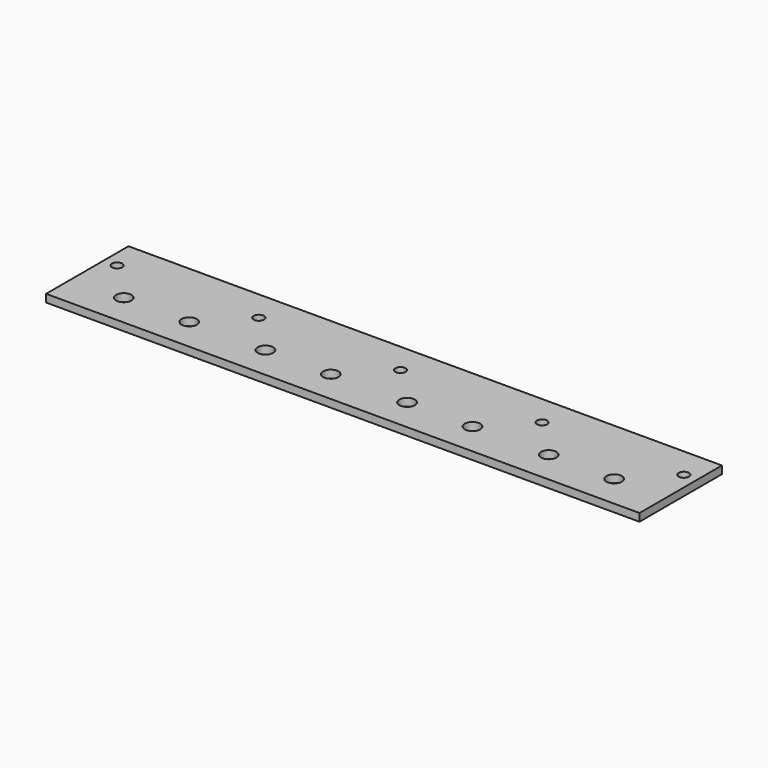
from build123d import *

# Parameters (mm, degrees)
F0_W     = 230.4
F0_H     = 40
F1_DEPTH = 3
F2_R     = 2
F3_DEPTH = 3.001
F4_R     = 3
F5_DEPTH = 3.001


with BuildPart() as f1:
    # F0 (on Top) → F1 (new body)
    with BuildSketch(Plane.XY):
        with Locations((115.2, 20)):
            Rectangle(F0_W, F0_H)
    extrude(amount=F1_DEPTH)

    # F2 (on face) → F3 (cut, through all)
    with BuildSketch(Plane.XY.offset(3)):
        with Locations((5.2, 28)):
            Circle(F2_R)
        with Locations((60.2, 28)):
            Circle(F2_R)
        with Locations((115.2, 28)):
            Circle(F2_R)
        with Locations((170.2, 28)):
            Circle(F2_R)
        with Locations((225.2, 28)):
            Circle(F2_R)
    extrude(amount=-F3_DEPTH, mode=Mode.SUBTRACT)

    # F4 (on face) → F5 (cut, through all)
    with BuildSketch(Plane.XY.offset(3)):
        with Locations((20, 12.7)):
            Circle(F4_R)
        with Locations((45.4, 12.7)):
            Circle(F4_R)
        with Locations((75, 12.7)):
            Circle(F4_R)
        with Locations((100.4, 12.7)):
            Circle(F4_R)
        with Locations((130, 12.7)):
            Circle(F4_R)
        with Locations((155.4, 12.7)):
            Circle(F4_R)
        with Locations((185, 12.7)):
            Circle(F4_R)
        with Locations((210.4, 12.7)):
            Circle(F4_R)
    extrude(amount=-F5_DEPTH, mode=Mode.SUBTRACT)


solid = f1.part
